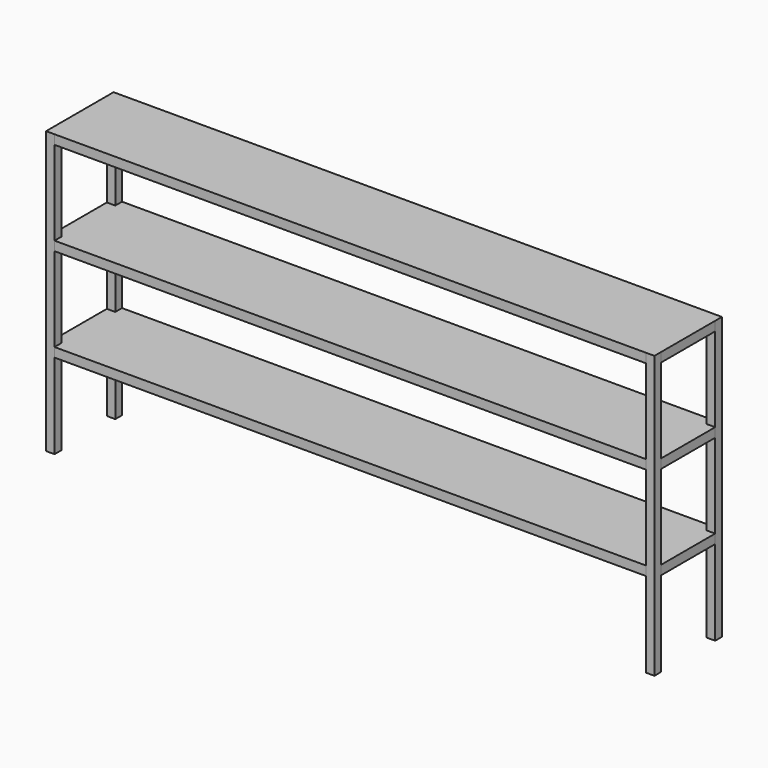
from build123d import *

# Parameters (mm, degrees)
F0_W          = 30
F0_H          = 30
F1_DEPTH      = 1000
F2_W          = 30
F2_H          = 30
F3_DEPTH      = 1051.5
F3_DEPTH_BACK = 1051.5
F4_W          = 30
F4_H          = 30
F5_DEPTH      = 120
F5_DEPTH_BACK = 120
F7_DEPTH      = 1.5
F9_DEPTH      = 1.5
F10_W         = 2163
F10_H         = 300
F11_DEPTH     = 1.5
F13_DEPTH     = 1.5
F15_DEPTH     = 1.5
F17_DEPTH     = 1.5
F18_W         = 220
F18_H         = 100
F19_DEPTH     = 25
F20_W         = 220
F20_H         = 100
F21_DEPTH     = 25


with BuildPart() as f1:
    # F0 (on Top) → F1 (new body)
    with BuildSketch(Plane.XY):
        with Locations((-1066.5, 135)):
            Rectangle(F0_W, F0_H)
        with Locations((1066.5, 135)):
            Rectangle(F0_W, F0_H)
        with Locations((1066.5, -135)):
            Rectangle(F0_W, F0_H)
        with Locations((-1066.5, -135)):
            Rectangle(F0_W, F0_H)
    extrude(amount=F1_DEPTH)


with BuildPart() as f3:
    # F2 (on Right) → F3 (new body, two sides)
    with BuildSketch(Plane.YZ) as f3_sk:
        with Locations((-135, 985)):
            Rectangle(F2_W, F2_H)
        with Locations((135, 985)):
            Rectangle(F2_W, F2_H)
        with Locations((-135, 652)):
            Rectangle(F2_W, F2_H)
        with Locations((135, 652)):
            Rectangle(F2_W, F2_H)
        with Locations((-135, 319)):
            Rectangle(F2_W, F2_H)
        with Locations((135, 319)):
            Rectangle(F2_W, F2_H)
    extrude(amount=F3_DEPTH)
    extrude(f3_sk.sketch, amount=-F3_DEPTH_BACK)


with BuildPart() as f5:
    # F4 (on Front) → F5 (new body, two sides)
    with BuildSketch(Plane.XZ) as f5_sk:
        with Locations((-1066.5, 985)):
            Rectangle(F4_W, F4_H)
        with Locations((1066.5, 985)):
            Rectangle(F4_W, F4_H)
        with Locations((-1066.5, 652)):
            Rectangle(F4_W, F4_H)
        with Locations((-1066.5, 319)):
            Rectangle(F4_W, F4_H)
        with Locations((1066.5, 652)):
            Rectangle(F4_W, F4_H)
        with Locations((1066.5, 319)):
            Rectangle(F4_W, F4_H)
    extrude(amount=F5_DEPTH)
    extrude(f5_sk.sketch, amount=-F5_DEPTH_BACK)


with BuildPart() as f7:
    # F6 (on face) → F7 (new body)
    with BuildSketch(Plane(origin=(0, 0, 304), x_dir=(1, 0, 0), z_dir=(0, 0, -1))):
        Polygon((-1051.5, 120), (-1081.5, 120), (-1081.5, -120), (-1051.5, -120), (-1051.5, -150), (1051.5, -150), (1051.5, -120), (1081.5, -120), (1081.5, 120), (1051.5, 120), (1051.5, 150), (-1051.5, 150), align=None)
    extrude(amount=F7_DEPTH)


with BuildPart() as f9:
    # F8 (on face) → F9 (new body)
    with BuildSketch(Plane(origin=(0, 0, 970), x_dir=(1, 0, 0), z_dir=(0, 0, -1))):
        Polygon((-1051.5, 120), (-1081.5, 120), (-1081.5, -120), (-1051.5, -120), (-1051.5, -150), (1051.5, -150), (1051.5, -120), (1081.5, -120), (1081.5, 120), (1051.5, 120), (1051.5, 150), (-1051.5, 150), align=None)
    extrude(amount=F9_DEPTH)

    # F18 (on face) → F19 (join)
    with BuildSketch(Plane(origin=(0, 0, 968.5), x_dir=(1, 0, 0), z_dir=(0, 0, -1))):
        with Locations((-406.5, 0)):
            Rectangle(F18_W, F18_H)
        with Locations((-14.5, 0)):
            Rectangle(F18_W, F18_H)
        with Locations((377.5, 0)):
            Rectangle(F18_W, F18_H)
        with Locations((769.5, 0)):
            Rectangle(F18_W, F18_H)
    extrude(amount=F19_DEPTH)


with BuildPart() as f11:
    # F10 (on face) → F11 (new body)
    with BuildSketch(Plane.XY.offset(1000)):
        Rectangle(F10_W, F10_H)
    extrude(amount=F11_DEPTH)


with BuildPart() as f13:
    # F12 (on face) → F13 (new body)
    with BuildSketch(Plane.XY.offset(334)):
        Polygon((-1051.5, 120), (-1081.5, 120), (-1081.5, -120), (-1051.5, -120), (-1051.5, -150), (1051.5, -150), (1051.5, -120), (1081.5, -120), (1081.5, 120), (1051.5, 120), (1051.5, 150), (-1051.5, 150), align=None)
    extrude(amount=F13_DEPTH)


with BuildPart() as f15:
    # F14 (on face) → F15 (new body)
    with BuildSketch(Plane.XY.offset(667)):
        Polygon((-1051.5, 120), (-1081.5, 120), (-1081.5, -120), (-1051.5, -120), (-1051.5, -150), (1051.5, -150), (1051.5, -120), (1081.5, -120), (1081.5, 120), (1051.5, 120), (1051.5, 150), (-1051.5, 150), align=None)
    extrude(amount=F15_DEPTH)


with BuildPart() as f17:
    # F16 (on face) → F17 (new body)
    with BuildSketch(Plane(origin=(0, 0, 637), x_dir=(1, 0, 0), z_dir=(0, 0, -1))):
        Polygon((-1051.5, 120), (-1081.5, 120), (-1081.5, -120), (-1051.5, -120), (-1051.5, -150), (1051.5, -150), (1051.5, -120), (1081.5, -120), (1081.5, 120), (1051.5, 120), (1051.5, 150), (-1051.5, 150), align=None)
    extrude(amount=F17_DEPTH)

    # F20 (on face) → F21 (join)
    with BuildSketch(Plane(origin=(0, 0, 635.5), x_dir=(1, 0, 0), z_dir=(0, 0, -1))):
        with Locations((-769.5, 50)):
            Rectangle(F20_W, F20_H)
        with Locations((-377.5, 50)):
            Rectangle(F20_W, F20_H)
        with Locations((14.5, 50)):
            Rectangle(F20_W, F20_H)
        with Locations((406.5, 50)):
            Rectangle(F20_W, F20_H)
    extrude(amount=F21_DEPTH)


solid = Compound([f1.part, f3.part, f5.part, f7.part, f9.part, f11.part, f13.part, f15.part, f17.part])
